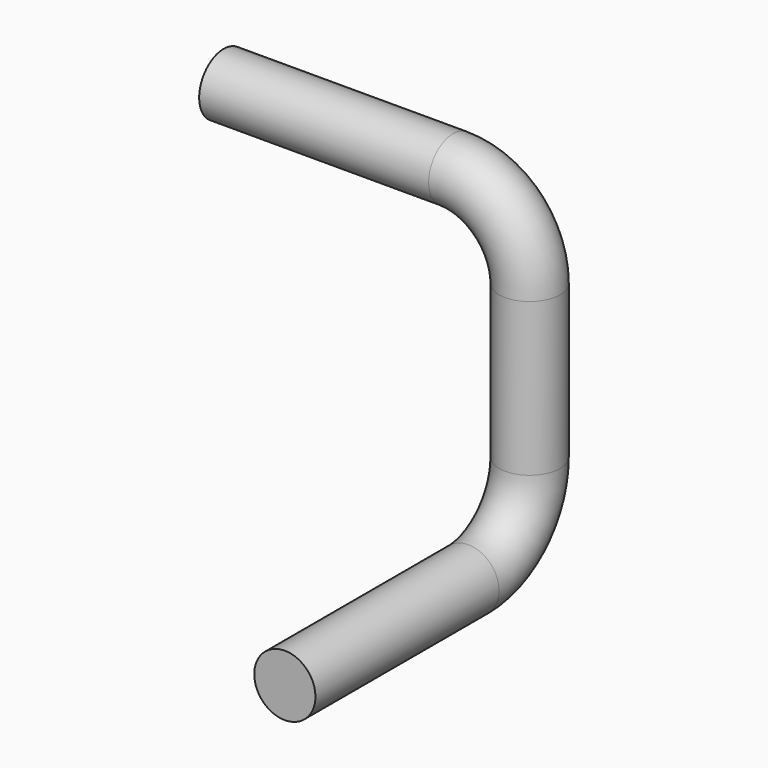
from build123d import *

# Parameters (mm, degrees)
F1_R = 4


with BuildPart() as f4:
    # F4: sweep along a path in F0, F3
    with BuildLine(Plane.XZ) as f4_path:
        Line((0, 0), (30, 0))
        ThreePointArc((30, 0), (37.0710678119, -2.9289321881), (40, -10))
        Line((40, -10), (40, -20))
    with BuildLine(Plane.YZ.offset(40)) as f4_path_2:
        Line((0, -20), (0, -30))
        ThreePointArc((0, -30), (-2.9289321881, -37.0710678119), (-10, -40))
        Line((-10, -40), (-40, -40))
    # F1 (on Right) → F4 (sweep)
    with BuildSketch(Plane.YZ):
        Circle(F1_R)
    sweep(path=f4_path.line + f4_path_2.line)


solid = f4.part
